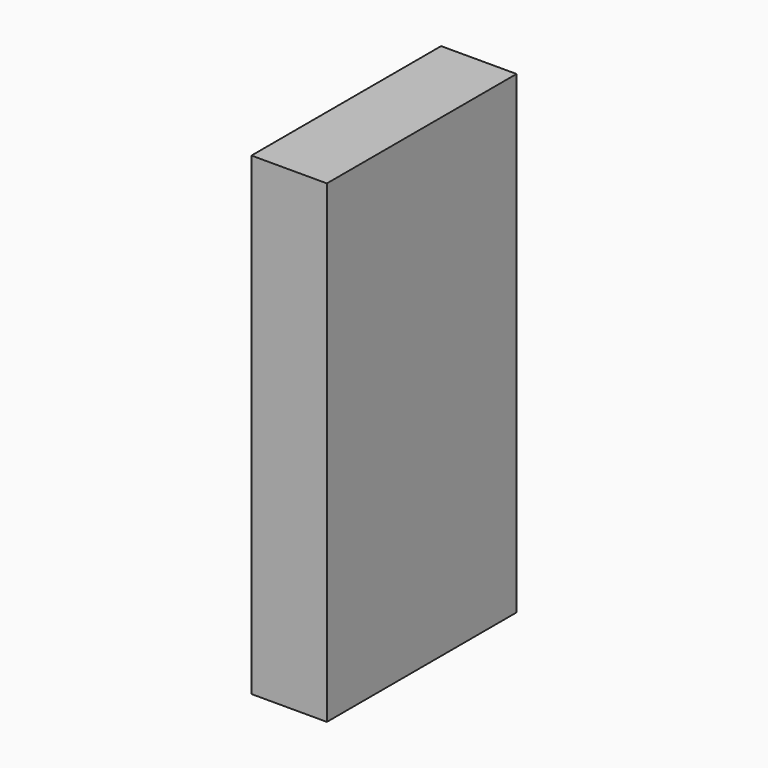
from build123d import *

# Parameters (mm, degrees)
SKETCH_W  = 14
SKETCH_H  = 44
PAD_DEPTH = 88


with BuildPart() as part:
    # Sketch → Pad (new body)
    with BuildSketch(Plane.XY):
        Rectangle(SKETCH_W, SKETCH_H)
    extrude(amount=PAD_DEPTH)


solid = part.part
